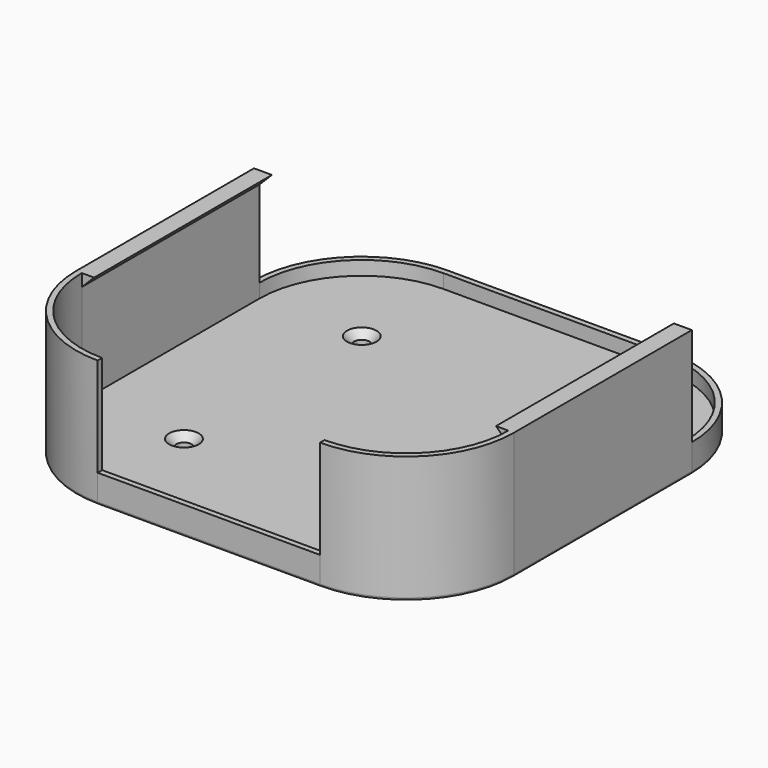
from build123d import *

# Parameters (mm, degrees)
F1_DEPTH = 8.001
F3_DEPTH = 3.937
F5_DEPTH = 27.94
F7_DEPTH = 62.865
F8_R     = 2.159
F9_DEPTH = 25.4
F10_SIZE = 2.032
F11_R    = 0.762


with BuildPart() as f1:
    # F0 (on Top) → F1 (new body)
    with BuildSketch(Plane.XY):
        with BuildLine():
            Line((31.4325, 61.9125), (-31.4325, 61.9125))
            ThreePointArc((-31.4325, 61.9125), (-52.9851146906, 52.9851146906), (-61.9125, 31.4325))
            Line((-61.9125, 31.4325), (-61.9125, -31.4325))
            ThreePointArc((-61.9125, -31.4325), (-52.9851146906, -52.9851146906), (-31.4325, -61.9125))
            Line((-31.4325, -61.9125), (31.4325, -61.9125))
            ThreePointArc((31.4325, -61.9125), (52.9851146906, -52.9851146906), (61.9125, -31.4325))
            Line((61.9125, -31.4325), (61.9125, 31.4325))
            ThreePointArc((61.9125, 31.4325), (52.9851146906, 52.9851146906), (31.4325, 61.9125))
        make_face()
    extrude(amount=F1_DEPTH)

    # F2 (on face) → F3 (cut)
    with BuildSketch(Plane.XY.offset(8.001)):
        with BuildLine():
            Line((31.4325, 60.325), (-31.4325, 60.325))
            ThreePointArc((-31.4325, 60.325), (-51.8625826754, 51.8625826754), (-60.325, 31.4325))
            Line((-60.325, 31.4325), (-60.325, -31.4325))
            ThreePointArc((-60.325, -31.4325), (-51.8625826754, -51.8625826754), (-31.4325, -60.325))
            Line((-31.4325, -60.325), (31.4325, -60.325))
            ThreePointArc((31.4325, -60.325), (51.8625826754, -51.8625826754), (60.325, -31.4325))
            Line((60.325, -31.4325), (60.325, 31.4325))
            ThreePointArc((60.325, 31.4325), (51.8625826754, 51.8625826754), (31.4325, 60.325))
        make_face()
    extrude(amount=-F3_DEPTH, mode=Mode.SUBTRACT)

    # F4 (on face) → F5 (join)
    with BuildSketch(Plane.XY.offset(8.001)):
        with BuildLine():
            Line((61.9125, 31.4325), (60.325, 31.4325))
            Line((60.325, 31.4325), (60.325, -31.4325))
            ThreePointArc((60.325, -31.4325), (51.8625826754, -51.8625826754), (31.4325, -60.325))
            Line((31.4325, -60.325), (31.4325, -61.9125))
            ThreePointArc((31.4325, -61.9125), (52.9851146906, -52.9851146906), (61.9125, -31.4325))
            Line((61.9125, -31.4325), (61.9125, 31.4325))
        make_face()
        with BuildLine():
            Line((-60.325, -31.4325), (-60.325, 31.4325))
            Line((-60.325, 31.4325), (-61.9125, 31.4325))
            Line((-61.9125, 31.4325), (-61.9125, -31.4325))
            ThreePointArc((-61.9125, -31.4325), (-52.9851146906, -52.9851146906), (-31.4325, -61.9125))
            Line((-31.4325, -61.9125), (-31.4325, -60.325))
            ThreePointArc((-31.4325, -60.325), (-51.8625826754, -51.8625826754), (-60.325, -31.4325))
        make_face()
    extrude(amount=F5_DEPTH)

    # F6 (on face) → F7 (join, through all)
    with BuildSketch(Plane(origin=(0, 31.4325, 0), x_dir=(-1, 0, 0), z_dir=(0, 1, 0))):
        Polygon((-56.8325, 35.941), (-60.325, 35.941), (-60.325, 32.4485), align=None)
        Polygon((60.325, 32.4485), (60.325, 35.941), (56.8325, 35.941), align=None)
    extrude(amount=-F7_DEPTH)

    # F8 (on face) → F9 (cut)
    with BuildSketch(Plane(origin=(0, 0, 0), x_dir=(1, 0, 0), z_dir=(0, 0, -1))):
        with Locations((-31.4325, 31.4325)):
            Circle(F8_R)
        with Locations((31.4325, 31.4325)):
            Circle(F8_R)
        with Locations((31.4325, -31.4325)):
            Circle(F8_R)
        with Locations((-31.4325, -31.4325)):
            Circle(F8_R)
    extrude(amount=-F9_DEPTH, mode=Mode.SUBTRACT)

    # F10
    f10_edges = [f1.edges().sort_by_distance(p)[0] for p in [
        (29.2735, -31.4325, 4.064),
        (-33.5915, -31.4325, 4.064),
        (-33.5915, 31.4325, 4.064),
        (29.2735, 31.4325, 4.064),
    ]]
    chamfer(f10_edges, length=F10_SIZE)

    # F11
    f11_edges = [f1.edges().sort_by_distance(p)[0] for p in [
        (-52.985115, 52.985115, 0),
    ]]
    fillet(f11_edges, radius=F11_R)


solid = f1.part
